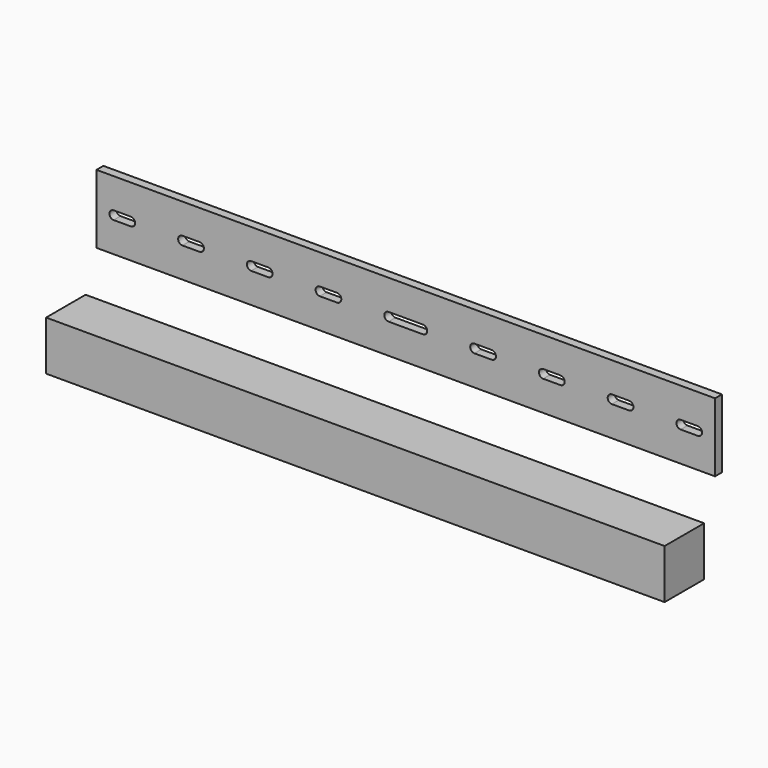
from build123d import *

# Parameters (mm, degrees)
F0_W     = 457.2
F0_H     = 50.8
F1_DEPTH = 6.35
F2_T     = -2.54
F3_W     = 457.2
F3_H     = 36.5125
F4_DEPTH = 36.5125


with BuildPart() as f1:
    # F0 (on Front) → F1 (new body)
    with BuildSketch(Plane.XZ):
        with Locations((-228.6, 25.4)):
            Rectangle(F0_W, F0_H)
        with BuildLine():
            ThreePointArc((-431.8, 28.575), (-429.554936, 27.645064), (-428.625, 25.4))
            ThreePointArc((-428.625, 25.4), (-429.554936, 23.154936), (-431.8, 22.225))
            Line((-431.8, 22.225), (-444.5, 22.225))
            ThreePointArc((-444.5, 22.225), (-447.675, 25.4), (-444.5, 28.575))
            Line((-444.5, 28.575), (-431.8, 28.575))
        make_face(mode=Mode.SUBTRACT)
        with BuildLine():
            ThreePointArc((-381, 28.575), (-378.754936, 27.645064), (-377.825, 25.4))
            ThreePointArc((-377.825, 25.4), (-378.754936, 23.154936), (-381, 22.225))
            Line((-381, 22.225), (-393.7, 22.225))
            ThreePointArc((-393.7, 22.225), (-396.875, 25.4), (-393.7, 28.575))
            Line((-393.7, 28.575), (-381, 28.575))
        make_face(mode=Mode.SUBTRACT)
        with BuildLine():
            ThreePointArc((-330.2, 28.575), (-327.954936, 27.645064), (-327.025, 25.4))
            ThreePointArc((-327.025, 25.4), (-327.954936, 23.154936), (-330.2, 22.225))
            Line((-330.2, 22.225), (-342.9, 22.225))
            ThreePointArc((-342.9, 22.225), (-346.075, 25.4), (-342.9, 28.575))
            Line((-342.9, 28.575), (-330.2, 28.575))
        make_face(mode=Mode.SUBTRACT)
        with BuildLine():
            ThreePointArc((-279.4, 28.575), (-277.154936, 27.645064), (-276.225, 25.4))
            ThreePointArc((-276.225, 25.4), (-277.154936, 23.154936), (-279.4, 22.225))
            Line((-279.4, 22.225), (-292.1, 22.225))
            ThreePointArc((-292.1, 22.225), (-295.275, 25.4), (-292.1, 28.575))
            Line((-292.1, 28.575), (-279.4, 28.575))
        make_face(mode=Mode.SUBTRACT)
        with BuildLine():
            Line((-241.3, 28.575), (-228.6, 28.575))
            Line((-228.6, 28.575), (-215.9, 28.575))
            ThreePointArc((-215.9, 28.575), (-213.654936, 27.645064), (-212.725, 25.4))
            ThreePointArc((-212.725, 25.4), (-213.654936, 23.154936), (-215.9, 22.225))
            Line((-215.9, 22.225), (-228.6, 22.225))
            Line((-228.6, 22.225), (-241.3, 22.225))
            ThreePointArc((-241.3, 22.225), (-244.475, 25.4), (-241.3, 28.575))
        make_face(mode=Mode.SUBTRACT)
        with BuildLine():
            ThreePointArc((-177.8, 22.225), (-180.975, 25.4), (-177.8, 28.575))
            Line((-177.8, 28.575), (-165.1, 28.575))
            ThreePointArc((-165.1, 28.575), (-162.854936, 27.645064), (-161.925, 25.4))
            ThreePointArc((-161.925, 25.4), (-162.854936, 23.154936), (-165.1, 22.225))
            Line((-165.1, 22.225), (-177.8, 22.225))
        make_face(mode=Mode.SUBTRACT)
        with BuildLine():
            ThreePointArc((-114.3, 28.575), (-112.054936, 27.645064), (-111.125, 25.4))
            ThreePointArc((-111.125, 25.4), (-112.054936, 23.154936), (-114.3, 22.225))
            Line((-114.3, 22.225), (-127, 22.225))
            ThreePointArc((-127, 22.225), (-130.175, 25.4), (-127, 28.575))
            Line((-127, 28.575), (-114.3, 28.575))
        make_face(mode=Mode.SUBTRACT)
        with BuildLine():
            ThreePointArc((-76.2, 22.225), (-79.375, 25.4), (-76.2, 28.575))
            Line((-76.2, 28.575), (-63.5, 28.575))
            ThreePointArc((-63.5, 28.575), (-61.254936, 27.645064), (-60.325, 25.4))
            ThreePointArc((-60.325, 25.4), (-61.254936, 23.154936), (-63.5, 22.225))
            Line((-63.5, 22.225), (-76.2, 22.225))
        make_face(mode=Mode.SUBTRACT)
        with BuildLine():
            ThreePointArc((-25.4, 22.225), (-28.575, 25.4), (-25.4, 28.575))
            Line((-25.4, 28.575), (-12.7, 28.575))
            ThreePointArc((-12.7, 28.575), (-10.454936, 27.645064), (-9.525, 25.4))
            ThreePointArc((-9.525, 25.4), (-10.454936, 23.154936), (-12.7, 22.225))
            Line((-12.7, 22.225), (-25.4, 22.225))
        make_face(mode=Mode.SUBTRACT)
    extrude(amount=F1_DEPTH)

    # F2
    f2_openings = [f1.faces().sort_by_distance(p)[0] for p in [
        (-228.6, 0, 46.199864),
    ]]
    offset(amount=F2_T, openings=f2_openings)


with BuildPart() as f4:
    # F3 (on Front) → F4 (new body)
    with BuildSketch(Plane.XZ):
        with Locations((-241.742683, -55.595393)):
            Rectangle(F3_W, F3_H)
    extrude(amount=F4_DEPTH)


solid = Compound([f1.part, f4.part])
